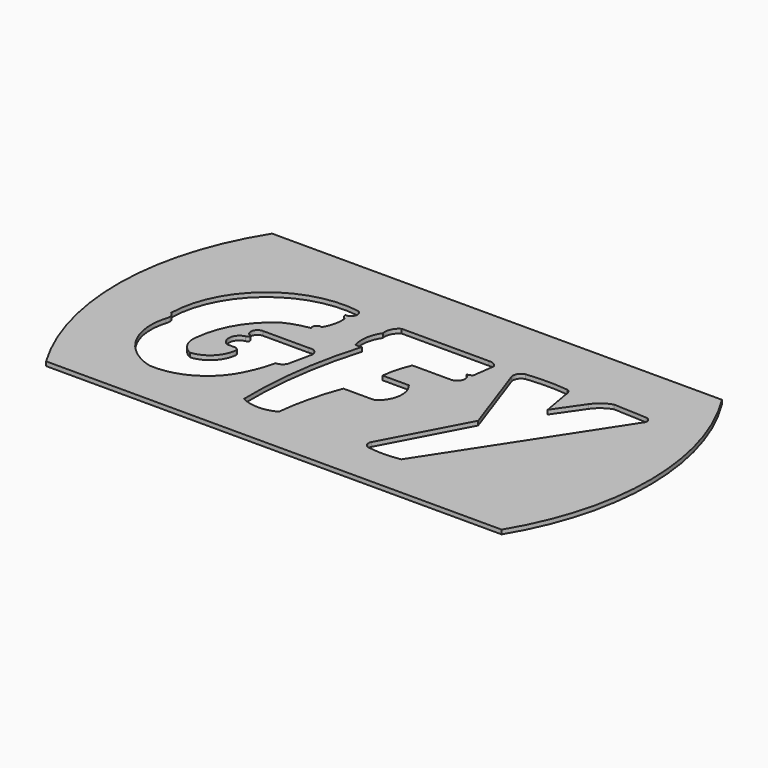
from build123d import *

# Parameters (mm, degrees)
F1_DEPTH = 1.5


with BuildPart() as f1:
    # F0 (on Top) → F1 (new body)
    with BuildSketch(Plane.XY):
        with BuildLine():
            Line((-78.070531, -28.981596), (83.511818, -28.981596))
            ThreePointArc((83.511818, -28.981596), (97.015282, 20.627403), (82.488377, 69.94642))
            Line((82.488377, 69.94642), (-77.047091, 69.94642))
            ThreePointArc((-77.047091, 69.94642), (-91.573996, 20.627403), (-78.070531, -28.981596))
        make_face()
        with BuildLine():
            ThreePointArc((-69.221243, 15.378748), (-56.875674, 41.011571), (-29.456094, 48.602439))
            ThreePointArc((-29.456094, 48.602439), (-28.318317, 45.950127), (-30.804796, 44.484958))
            ThreePointArc((-30.804796, 44.484958), (-30.30087, 43.439414), (-29.456094, 42.643514))
            ThreePointArc((-29.456094, 42.643514), (-29.754967, 38.52182), (-31.307008, 34.691826))
            ThreePointArc((-31.307008, 34.691826), (-33.073301, 34.263475), (-33.198223, 32.450281))
            ThreePointArc((-33.198223, 32.450281), (-37.743701, 31.443683), (-42.059347, 29.697312))
            ThreePointArc((-42.059347, 29.697312), (-50.547741, 20.474948), (-54.49114, 8.577283))
            ThreePointArc((-54.49114, 8.577283), (-53.878072, 3.53006), (-50.218977, 0))
            ThreePointArc((-50.218977, 0), (-44.019674, 2.905988), (-41.092087, 9.09512))
            ThreePointArc((-41.092087, 9.09512), (-41.596159, 9.931856), (-42.516142, 10.260256))
            Line((-42.516142, 10.260256), (-45.299519, 10.260256))
            ThreePointArc((-45.299519, 10.260256), (-47.249951, 14.121331), (-44.263843, 17.251067))
            ThreePointArc((-44.263843, 17.251067), (-43.416051, 17.995459), (-44.263843, 18.739851))
            ThreePointArc((-44.263843, 18.739851), (-44.75679, 21.306075), (-42.580869, 22.753095))
            Line((-42.580869, 22.753095), (-26.139516, 22.753095))
            ThreePointArc((-26.139516, 22.753095), (-23.806404, 22.144728), (-23.097219, 19.840257))
            Line((-23.097219, 19.840257), (-24.780193, 11.945932))
            ThreePointArc((-24.780193, 11.945932), (-25.908191, 10.415742), (-27.723249, 9.850567))
            ThreePointArc((-27.723249, 9.850567), (-29.192747, 4.809992), (-31.297695, 0))
            ThreePointArc((-31.297695, 0), (-40.716383, -9.995095), (-54.100201, -13.075197))
            ThreePointArc((-54.100201, -13.075197), (-66.483065, -3.568669), (-68.217009, 11.945932))
            ThreePointArc((-68.217009, 11.945932), (-68.068902, 13.852556), (-69.221243, 15.378748))
        make_face(mode=Mode.SUBTRACT)
        with BuildLine():
            ThreePointArc((-21.219255, -12.345982), (-19.944396, 10.29328), (-15.124779, 32.450281))
            ThreePointArc((-15.124779, 32.450281), (-16.238245, 32.156524), (-17.377038, 32.327555))
            ThreePointArc((-17.377038, 32.327555), (-17.701466, 37.582362), (-15.762346, 42.47706))
            ThreePointArc((-15.762346, 42.47706), (-15.39411, 45.513529), (-13.340303, 47.78016))
            Line((-13.340303, 47.78016), (17.581943, 47.78016))
            ThreePointArc((17.581943, 47.78016), (19.376598, 47.456686), (20.675082, 46.176311))
            Line((20.675082, 46.176311), (19.60909, 38.391046))
            ThreePointArc((19.60909, 38.391046), (18.718733, 37.856487), (17.703688, 37.637003))
            ThreePointArc((17.703688, 37.637003), (19.077047, 34.545895), (16.411087, 32.464135))
            Line((16.411087, 32.464135), (2.676149, 32.464135))
            ThreePointArc((2.676149, 32.464135), (0.993774, 27.613666), (0, 22.576816))
            Line((0, 22.576816), (9.333577, 22.576816))
            ThreePointArc((9.333577, 22.576816), (11.379026, 16.571914), (8.8095, 10.771892))
            ThreePointArc((8.8095, 10.771892), (7.828648, 9.973453), (6.596562, 9.687897))
            Line((6.596562, 9.687897), (-3.560899, 9.687897))
            ThreePointArc((-3.560899, 9.687897), (-6.91927, -1.159813), (-8.874034, -12.345982))
            ThreePointArc((-8.874034, -12.345982), (-15.046644, -13.81701), (-21.219255, -12.345982))
        make_face(mode=Mode.SUBTRACT)
        with BuildLine():
            ThreePointArc((24.318619, -13.598498), (22.572563, -12.506763), (22.547672, -10.447643))
            Line((22.547672, -10.447643), (37.622835, 17.960656))
            Line((37.622835, 17.960656), (28.403541, 44.209484))
            ThreePointArc((28.403541, 44.209484), (28.605897, 46.528204), (30.480955, 47.907177))
            ThreePointArc((30.480955, 47.907177), (37.950305, 48.319326), (45.419656, 47.907177))
            ThreePointArc((45.419656, 47.907177), (46.387462, 46.960221), (46.68678, 45.639697))
            Line((46.68678, 45.639697), (48.554119, 35.102576))
            Line((48.554119, 35.102576), (55.289872, 44.839408))
            ThreePointArc((55.289872, 44.839408), (57.776817, 47.408886), (60.958575, 49.040917))
            Line((60.958575, 49.040917), (72.734997, 48.503447))
            ThreePointArc((72.734997, 48.503447), (74.349534, 47.270892), (73.76077, 45.326855))
            Line((73.76077, 45.326855), (35.466932, -13.432029))
            ThreePointArc((35.466932, -13.432029), (29.89986, -13.989714), (24.318619, -13.598498))
        make_face(mode=Mode.SUBTRACT)
    extrude(amount=F1_DEPTH)


solid = f1.part
